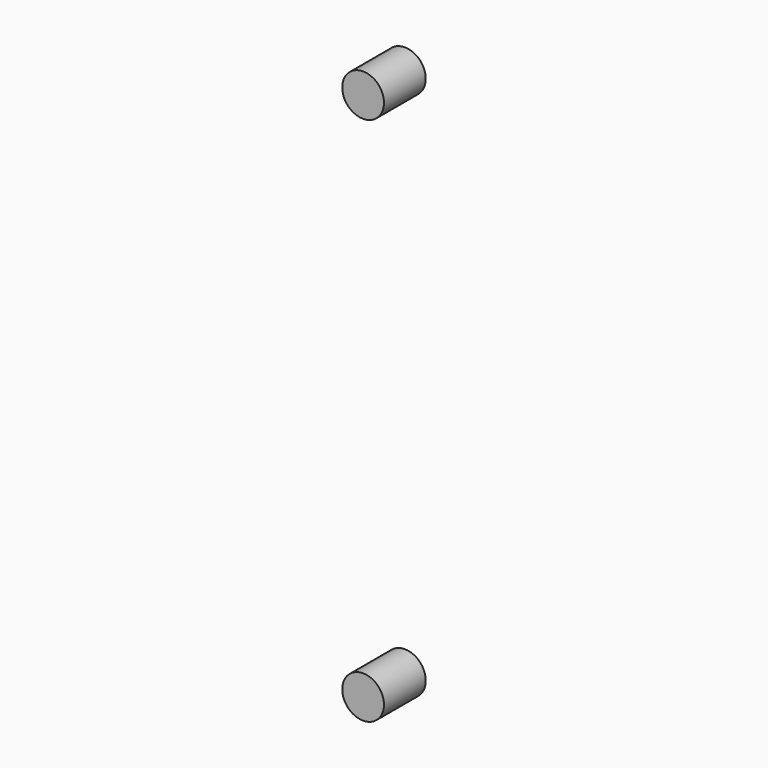
from build123d import *

# Parameters (mm, degrees)
CYLINDER014005166_R          = 4
CYLINDER014005166_DEPTH      = 10
CYLINDER014005166_ROLL_ANGLE = 90
CYLINDER014005165_R          = 4
CYLINDER014005165_DEPTH      = 10
CYLINDER014005165_ROLL_ANGLE = 90


with BuildPart() as obj1:
    # Cylinder014005166 → Cylinder014005166 (new body)
    with BuildSketch(Plane.XY):
        Circle(CYLINDER014005166_R)
    extrude(amount=CYLINDER014005166_DEPTH)


with BuildPart() as obj1_1:
    # Cylinder014005166 roll: moved
    add(obj1.part.rotate(Axis((0, 0, 0), (1, 0, 0)), CYLINDER014005166_ROLL_ANGLE))


with BuildPart() as obj1_2:
    # Cylinder014005166 placement: moved
    add(obj1_1.part.moved(Location((0, 43, -47))))


with BuildPart() as obj2:
    # Cylinder014005165 → Cylinder014005165 (new body)
    with BuildSketch(Plane.XY):
        Circle(CYLINDER014005165_R)
    extrude(amount=CYLINDER014005165_DEPTH)


with BuildPart() as obj2_1:
    # Cylinder014005165 roll: moved
    add(obj2.part.rotate(Axis((0, 0, 0), (1, 0, 0)), CYLINDER014005165_ROLL_ANGLE))


with BuildPart() as obj2_2:
    # Cylinder014005165 placement: moved
    add(obj2_1.part.moved(Location((0, 43, 54.5))))

    # Fusion: union obj1
    add(obj1_2.part)


solid = obj2_2.part
